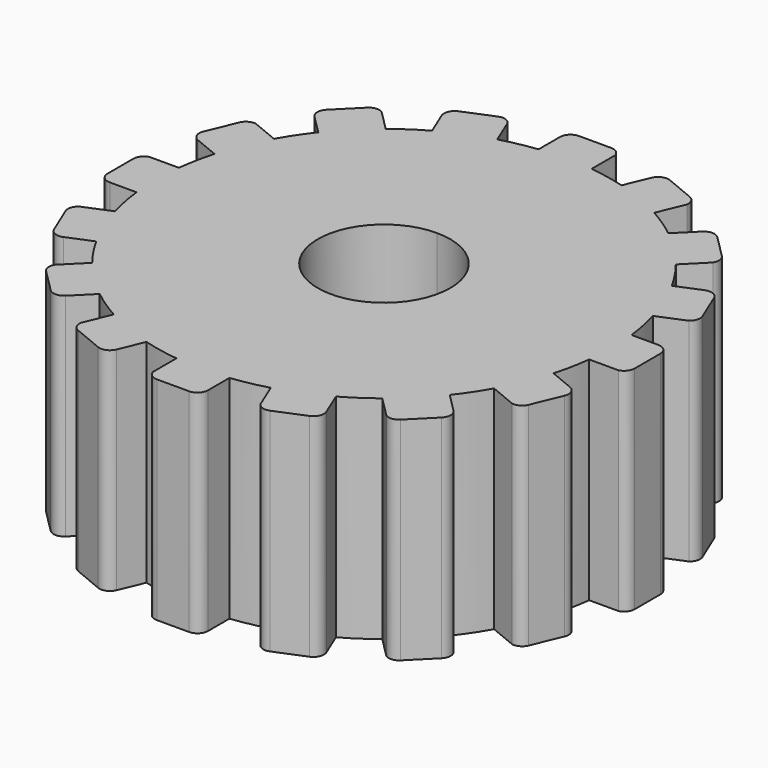
from build123d import *

# Parameters (mm, degrees)
F1_DEPTH = 25.4


with BuildPart() as f1:
    # F0 (on Top) → F1 (new body)
    with BuildSketch(Plane.XY):
        with BuildLine():
            ThreePointArc((3.175, 27.119779), (1.590199, 27.258655), (0, 27.305))
            ThreePointArc((0, 27.305), (-1.590199, 27.258655), (-3.175, 27.119779))
            ThreePointArc((-3.175, 27.119779), (-5.326941, 26.780342), (-7.444973, 26.270428))
            ThreePointArc((-7.444973, 26.270428), (-10.449171, 25.226531), (-13.311608, 23.840389))
            ThreePointArc((-13.311608, 23.840389), (-15.169845, 22.703278), (-16.931515, 21.421643))
            ThreePointArc((-16.931515, 21.421643), (-19.307551, 19.307551), (-21.421643, 16.931515))
            ThreePointArc((-21.421643, 16.931515), (-22.703278, 15.169845), (-23.840389, 13.311608))
            ThreePointArc((-23.840389, 13.311608), (-25.226531, 10.449171), (-26.270428, 7.444973))
            ThreePointArc((-26.270428, 7.444973), (-26.780342, 5.326941), (-27.119779, 3.175))
            ThreePointArc((-27.119779, 3.175), (-27.305, 0), (-27.119779, -3.175))
            ThreePointArc((-27.119779, -3.175), (-26.780342, -5.326941), (-26.270428, -7.444973))
            ThreePointArc((-26.270428, -7.444973), (-25.226531, -10.449171), (-23.840389, -13.311608))
            ThreePointArc((-23.840389, -13.311608), (-22.703278, -15.169845), (-21.421643, -16.931515))
            ThreePointArc((-21.421643, -16.931515), (-19.307551, -19.307551), (-16.931515, -21.421643))
            ThreePointArc((-16.931515, -21.421643), (-15.169845, -22.703278), (-13.311608, -23.840389))
            ThreePointArc((-13.311608, -23.840389), (-10.449171, -25.226531), (-7.444973, -26.270428))
            ThreePointArc((-7.444973, -26.270428), (-5.326941, -26.780342), (-3.175, -27.119779))
            ThreePointArc((-3.175, -27.119779), (0, -27.305), (3.175, -27.119779))
            ThreePointArc((3.175, -27.119779), (5.326941, -26.780342), (7.444973, -26.270428))
            ThreePointArc((7.444973, -26.270428), (10.449171, -25.226531), (13.311608, -23.840389))
            ThreePointArc((13.311608, -23.840389), (15.169845, -22.703278), (16.931515, -21.421643))
            ThreePointArc((16.931515, -21.421643), (19.307551, -19.307551), (21.421643, -16.931515))
            ThreePointArc((21.421643, -16.931515), (22.703278, -15.169845), (23.840389, -13.311608))
            ThreePointArc((23.840389, -13.311608), (25.226531, -10.449171), (26.270428, -7.444973))
            ThreePointArc((26.270428, -7.444973), (26.780342, -5.326941), (27.119779, -3.175))
            ThreePointArc((27.119779, -3.175), (27.258655, -1.590199), (27.305, 0))
            ThreePointArc((27.305, 0), (27.258655, 1.590199), (27.119779, 3.175))
            ThreePointArc((27.119779, 3.175), (26.780342, 5.326941), (26.270428, 7.444973))
            ThreePointArc((26.270428, 7.444973), (25.226531, 10.449171), (23.840389, 13.311608))
            ThreePointArc((23.840389, 13.311608), (22.703278, 15.169845), (21.421643, 16.931515))
            ThreePointArc((21.421643, 16.931515), (19.307551, 19.307551), (16.931515, 21.421643))
            ThreePointArc((16.931515, 21.421643), (15.169845, 22.703278), (13.311608, 23.840389))
            ThreePointArc((13.311608, 23.840389), (10.449171, 25.226531), (7.444973, 26.270428))
            ThreePointArc((7.444973, 26.270428), (5.326941, 26.780342), (3.175, 27.119779))
        make_face()
        with BuildLine():
            ThreePointArc((7.9375, 0), (-5.61266, -5.61266), (0, 7.9375))
            ThreePointArc((0, 7.9375), (5.61266, 5.61266), (7.9375, 0))
        make_face(mode=Mode.SUBTRACT)
        with BuildLine():
            ThreePointArc((-13.311608, 23.840389), (-10.449171, 25.226531), (-7.444973, 26.270428))
            Line((-7.444973, 26.270428), (-8.780969, 29.49581))
            ThreePointArc((-8.780969, 29.49581), (-9.464382, 29.976089), (-10.298293, 29.927998))
            Line((-10.298293, 29.927998), (-13.849286, 28.457129))
            ThreePointArc((-13.849286, 28.457129), (-14.536605, 27.76981), (-14.536605, 26.797794))
            Line((-14.536605, 26.797794), (-13.311608, 23.840389))
        make_face()
        with BuildLine():
            ThreePointArc((-21.421643, 16.931515), (-19.307551, 19.307551), (-16.931515, 21.421643))
            Line((-16.931515, 21.421643), (-19.400115, 23.890243))
            ThreePointArc((-19.400115, 23.890243), (-20.215301, 24.072433), (-20.967332, 23.708879))
            Line((-20.967332, 23.708879), (-23.685143, 20.991067))
            ThreePointArc((-23.685143, 20.991067), (-24.057118, 20.093041), (-23.685143, 19.195015))
            Line((-23.685143, 19.195015), (-21.421643, 16.931515))
        make_face()
        with BuildLine():
            ThreePointArc((-26.270428, 7.444973), (-25.226531, 10.449171), (-23.840389, 13.311608))
            Line((-23.840389, 13.311608), (-27.06577, 14.647604))
            ThreePointArc((-27.06577, 14.647604), (-27.888625, 14.503968), (-28.444284, 13.880297))
            Line((-28.444284, 13.880297), (-29.915153, 10.329305))
            ThreePointArc((-29.915153, 10.329305), (-29.915153, 9.357289), (-29.227834, 8.66997))
            Line((-29.227834, 8.66997), (-26.270428, 7.444973))
        make_face()
        with BuildLine():
            ThreePointArc((-27.119779, -3.175), (-27.305, 0), (-27.119779, 3.175))
            Line((-27.119779, 3.175), (-30.610906, 3.175))
            ThreePointArc((-30.610906, 3.175), (-31.316158, 2.727404), (-31.590851, 1.938566))
            Line((-31.590851, 1.938566), (-31.590851, -1.905))
            ThreePointArc((-31.590851, -1.905), (-31.218877, -2.803026), (-30.320851, -3.175))
            Line((-30.320851, -3.175), (-27.119779, -3.175))
        make_face()
        with BuildLine():
            ThreePointArc((-23.840389, -13.311608), (-25.226531, -10.449171), (-26.270428, -7.444973))
            Line((-26.270428, -7.444973), (-29.49581, -8.780969))
            ThreePointArc((-29.49581, -8.780969), (-29.976089, -9.464382), (-29.927998, -10.298293))
            Line((-29.927998, -10.298293), (-28.457129, -13.849286))
            ThreePointArc((-28.457129, -13.849286), (-27.76981, -14.536605), (-26.797794, -14.536605))
            Line((-26.797794, -14.536605), (-23.840389, -13.311608))
        make_face()
        with BuildLine():
            ThreePointArc((-16.931515, -21.421643), (-19.307551, -19.307551), (-21.421643, -16.931515))
            Line((-21.421643, -16.931515), (-23.890243, -19.400115))
            ThreePointArc((-23.890243, -19.400115), (-24.072433, -20.215301), (-23.708879, -20.967332))
            Line((-23.708879, -20.967332), (-20.991067, -23.685143))
            ThreePointArc((-20.991067, -23.685143), (-20.093041, -24.057118), (-19.195015, -23.685143))
            Line((-19.195015, -23.685143), (-16.931515, -21.421643))
        make_face()
        with BuildLine():
            ThreePointArc((-7.444973, -26.270428), (-10.449171, -25.226531), (-13.311608, -23.840389))
            Line((-13.311608, -23.840389), (-14.647604, -27.06577))
            ThreePointArc((-14.647604, -27.06577), (-14.503968, -27.888625), (-13.880297, -28.444284))
            Line((-13.880297, -28.444284), (-10.329305, -29.915153))
            ThreePointArc((-10.329305, -29.915153), (-9.357289, -29.915153), (-8.66997, -29.227834))
            Line((-8.66997, -29.227834), (-7.444973, -26.270428))
        make_face()
        with BuildLine():
            ThreePointArc((3.175, -27.119779), (0, -27.305), (-3.175, -27.119779))
            Line((-3.175, -27.119779), (-3.175, -30.610906))
            ThreePointArc((-3.175, -30.610906), (-2.727404, -31.316158), (-1.938566, -31.590851))
            Line((-1.938566, -31.590851), (1.905, -31.590851))
            ThreePointArc((1.905, -31.590851), (2.803026, -31.218877), (3.175, -30.320851))
            Line((3.175, -30.320851), (3.175, -27.119779))
        make_face()
        with BuildLine():
            Line((14.536605, -26.797794), (13.311608, -23.840389))
            ThreePointArc((13.311608, -23.840389), (10.449171, -25.226531), (7.444973, -26.270428))
            Line((7.444973, -26.270428), (8.780969, -29.49581))
            ThreePointArc((8.780969, -29.49581), (9.464382, -29.976089), (10.298293, -29.927998))
            Line((10.298293, -29.927998), (13.849286, -28.457129))
            ThreePointArc((13.849286, -28.457129), (14.536605, -27.76981), (14.536605, -26.797794))
        make_face()
        with BuildLine():
            Line((23.685143, -19.195015), (21.421643, -16.931515))
            ThreePointArc((21.421643, -16.931515), (19.307551, -19.307551), (16.931515, -21.421643))
            Line((16.931515, -21.421643), (19.400115, -23.890243))
            ThreePointArc((19.400115, -23.890243), (20.215301, -24.072433), (20.967332, -23.708879))
            Line((20.967332, -23.708879), (23.685143, -20.991067))
            ThreePointArc((23.685143, -20.991067), (24.057118, -20.093041), (23.685143, -19.195015))
        make_face()
        with BuildLine():
            Line((29.227834, -8.66997), (26.270428, -7.444973))
            ThreePointArc((26.270428, -7.444973), (25.226531, -10.449171), (23.840389, -13.311608))
            Line((23.840389, -13.311608), (27.06577, -14.647604))
            ThreePointArc((27.06577, -14.647604), (27.888625, -14.503968), (28.444284, -13.880297))
            Line((28.444284, -13.880297), (29.915153, -10.329305))
            ThreePointArc((29.915153, -10.329305), (29.915153, -9.357289), (29.227834, -8.66997))
        make_face()
        with BuildLine():
            Line((30.320851, 3.175), (27.119779, 3.175))
            ThreePointArc((27.119779, 3.175), (27.258655, 1.590199), (27.305, 0))
            ThreePointArc((27.305, 0), (27.258655, -1.590199), (27.119779, -3.175))
            Line((27.119779, -3.175), (30.610906, -3.175))
            ThreePointArc((30.610906, -3.175), (31.316158, -2.727404), (31.590851, -1.938566))
            Line((31.590851, -1.938566), (31.590851, 1.905))
            ThreePointArc((31.590851, 1.905), (31.218877, 2.803026), (30.320851, 3.175))
        make_face()
        with BuildLine():
            Line((26.797794, 14.536605), (23.840389, 13.311608))
            ThreePointArc((23.840389, 13.311608), (25.226531, 10.449171), (26.270428, 7.444973))
            Line((26.270428, 7.444973), (29.49581, 8.780969))
            ThreePointArc((29.49581, 8.780969), (29.976089, 9.464382), (29.927998, 10.298293))
            Line((29.927998, 10.298293), (28.457129, 13.849286))
            ThreePointArc((28.457129, 13.849286), (27.76981, 14.536605), (26.797794, 14.536605))
        make_face()
        with BuildLine():
            Line((19.195015, 23.685143), (16.931515, 21.421643))
            ThreePointArc((16.931515, 21.421643), (19.307551, 19.307551), (21.421643, 16.931515))
            Line((21.421643, 16.931515), (23.890243, 19.400115))
            ThreePointArc((23.890243, 19.400115), (24.072433, 20.215301), (23.708879, 20.967332))
            Line((23.708879, 20.967332), (20.991067, 23.685143))
            ThreePointArc((20.991067, 23.685143), (20.093041, 24.057118), (19.195015, 23.685143))
        make_face()
        with BuildLine():
            Line((8.66997, 29.227834), (7.444973, 26.270428))
            ThreePointArc((7.444973, 26.270428), (10.449171, 25.226531), (13.311608, 23.840389))
            Line((13.311608, 23.840389), (14.647604, 27.06577))
            ThreePointArc((14.647604, 27.06577), (14.503968, 27.888625), (13.880297, 28.444284))
            Line((13.880297, 28.444284), (10.329305, 29.915153))
            ThreePointArc((10.329305, 29.915153), (9.357289, 29.915153), (8.66997, 29.227834))
        make_face()
        with BuildLine():
            Line((1.938566, 31.590851), (0, 31.590851))
            Line((0, 31.590851), (0, 27.305))
            ThreePointArc((0, 27.305), (1.590199, 27.258655), (3.175, 27.119779))
            Line((3.175, 27.119779), (3.175, 30.610906))
            ThreePointArc((3.175, 30.610906), (2.727404, 31.316158), (1.938566, 31.590851))
        make_face()
        with BuildLine():
            Line((0, 27.305), (0, 31.590851))
            Line((0, 31.590851), (-1.905, 31.590851))
            ThreePointArc((-1.905, 31.590851), (-2.803026, 31.218877), (-3.175, 30.320851))
            Line((-3.175, 30.320851), (-3.175, 27.119779))
            ThreePointArc((-3.175, 27.119779), (-1.590199, 27.258655), (0, 27.305))
        make_face()
    extrude(amount=F1_DEPTH)


solid = f1.part
